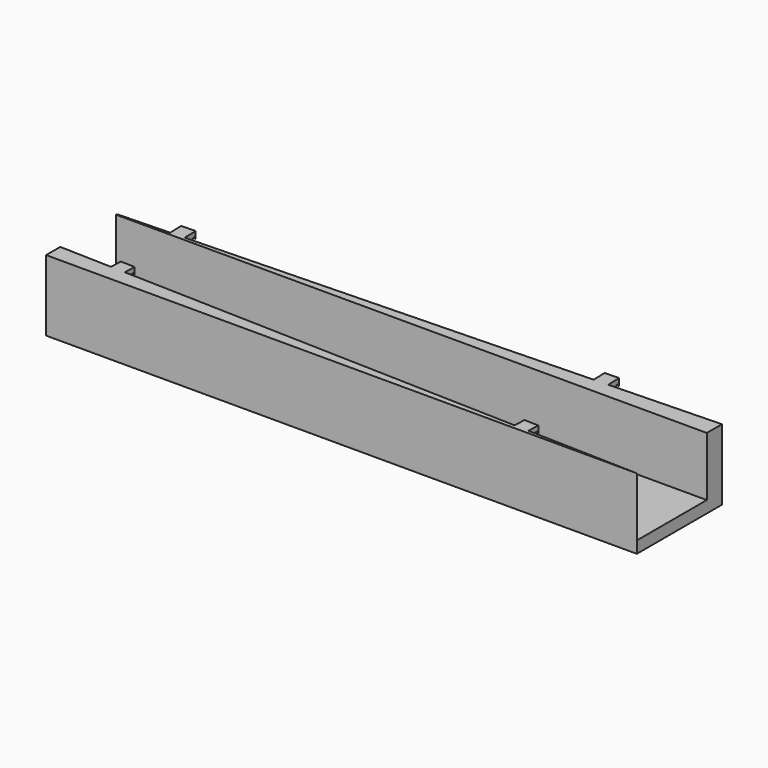
from build123d import *

# Parameters (mm, degrees)
PAD_DEPTH       = 60
POCKET_DEPTH    = 50
POCKET001_DEPTH = 408.7079232475
POCKET002_DEPTH = 408.4326470939


with BuildPart() as part:
    # Sketch → Pad (new body)
    with BuildSketch(Plane.XY):
        Polygon((450, 0), (450, 90), (356, 87.18), (355.64, 99.18), (343.64, 98.82), (344, 86.82), (6, 76.68), (5.64, 88.6800000001), (-6.36, 88.3200000001), (-6, 76.32), (-50, 75), (-50, 0), align=None)
    extrude(amount=PAD_DEPTH)

    # Sketch001 (on Face14 of Pad) → Pocket (cut)
    with BuildSketch(Plane.XY.offset(60)):
        Polygon((-50, 15), (-50, 74), (450, 74), (450, 0), (356, 2.82), (356.3, 12.82), (344.3, 13.18), (344, 3.18), (6, 13.32), (6.3, 23.32), (-5.7, 23.68), (-6, 13.68), align=None)
    extrude(amount=-POCKET_DEPTH, mode=Mode.SUBTRACT)

    # Sketch002 (on Face26 of Pocket) → Pocket001 (cut, through all)
    with BuildSketch(Plane(origin=(355.5953641722, -10.6678609252, 0), x_dir=(0.0299865091, 0.9995503035, 0), z_dir=(0.9995503035, -0.0299865091, 0))):
        with BuildLine():
            ThreePointArc((23.4984280855, 54), (19.9988591841, 55.4495689014), (21.4484280855, 51.95))
            ThreePointArc((21.4484280855, 51.95), (17.8329435114, 39), (21.4484280855, 26.05))
            ThreePointArc((21.4484280855, 26.05), (19.9988591841, 22.5504310986), (23.4984280855, 24))
            Line((23.4984280855, 24), (23.4984280855, 54))
        make_face()
    extrude(amount=-POCKET001_DEPTH, mode=Mode.SUBTRACT)

    # Sketch003 (on Face14 of Pocket001) → Pocket002 (cut, through all)
    with BuildSketch(Plane(origin=(358.2929363573, 10.7487880907, 0), x_dir=(-0.0299865091, 0.9995503035, 0), z_dir=(0.9995503035, 0.0299865091, 0))):
        with BuildLine():
            ThreePointArc((88.470997005, 54), (84.9714281036, 55.4495689014), (86.420997005, 51.95))
            ThreePointArc((86.420997005, 51.95), (82.8055124309, 39), (86.420997005, 26.05))
            ThreePointArc((86.420997005, 26.05), (84.9714281036, 22.5504310986), (88.470997005, 24))
            Line((88.470997005, 24), (88.470997005, 54))
        make_face()
    extrude(amount=-POCKET002_DEPTH, mode=Mode.SUBTRACT)


solid = part.part
